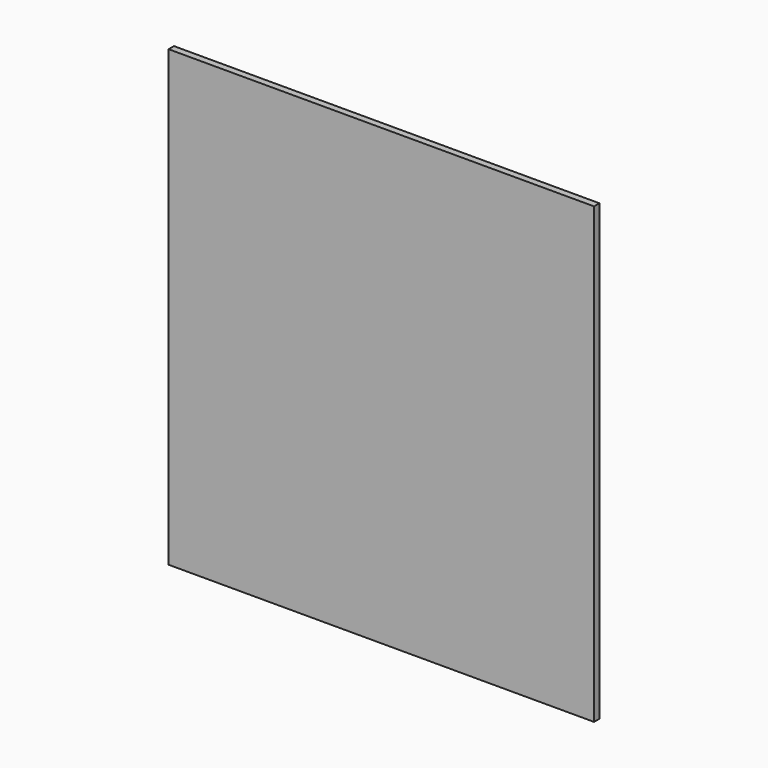
from build123d import *

# Parameters (mm, degrees)
F0_W     = 400
F0_H     = 1280
F1_DEPTH = 9.5


with BuildPart() as f1:
    # F0 (on Front) → F1 (new body, symmetric)
    with BuildSketch(Plane.XZ):
        with Locations((400, -560)):
            Rectangle(F0_W, F0_H)
        with Locations((0, -560)):
            Rectangle(F0_W, F0_H)
        with Locations((-400, -560)):
            Rectangle(F0_W, F0_H)
    extrude(amount=F1_DEPTH, both=True)


solid = f1.part
